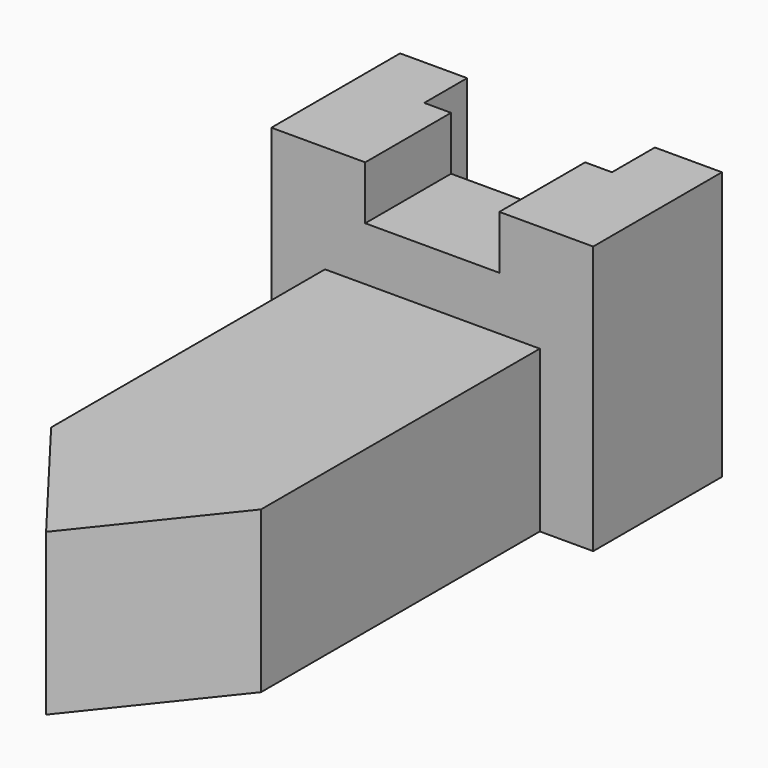
from build123d import *

# Parameters (mm, degrees)
F0_W      = 60
F0_H      = 50
F1_DEPTH  = 30
F2_W      = 25
F2_H      = 10
F3_DEPTH  = 30.001
F5_DEPTH  = 40.001
F6_DEPTH  = 10.001
F9_DEPTH  = 30
F11_DEPTH = 30.001


with BuildPart() as f1:
    # F0 (on Front) → F1 (new body)
    with BuildSketch(Plane.XZ):
        Rectangle(F0_W, F0_H)
    extrude(amount=F1_DEPTH)

    # F2 (on face) → F3 (cut, through all)
    with BuildSketch(Plane.XZ.offset(30)):
        with Locations((0, 20)):
            Rectangle(F2_W, F2_H)
    extrude(amount=-F3_DEPTH, mode=Mode.SUBTRACT)

    # F4 (on face) → F5 (cut, through all)
    with BuildSketch(Plane.XY.offset(15)):
        Polygon((-17.5, -10), (-12.5, -10), (17.5, -10), (17.5, 0), (-17.5, 0), align=None)
    extrude(amount=-F5_DEPTH, mode=Mode.SUBTRACT)

    # F6 (cut, through all): faces of the model
    f6_faces = [f1.faces().sort_by_distance(p)[0] for p in [
        (15, -5, 15),
        (-15, -5, 15),
    ]]
    extrude(f6_faces, amount=-F6_DEPTH, mode=Mode.SUBTRACT)

    # F8 (on offset) → F9 (join)
    with BuildSketch(Plane.XY.offset(5)):
        Polygon((20.0490429997, -29.9998670816), (-20.0000924617, -29.9999825656), (-20.0000924617, -119.9999825656), (19.9999075383, -119.9999825656), align=None)
    extrude(amount=-F9_DEPTH)

    # F10 (on face) → F11 (cut, through all)
    with BuildSketch(Plane.XY.offset(5)):
        Polygon((20.0136015809, -94.9169696898), (-9.24617e-05, -119.9999825656), (19.9999075383, -119.9999825656), align=None)
        Polygon((-9.24617e-05, -119.9999825656), (-20.0000924617, -93.8219279051), (-20.0000924617, -119.9999825656), align=None)
    extrude(amount=-F11_DEPTH, mode=Mode.SUBTRACT)


solid = f1.part
